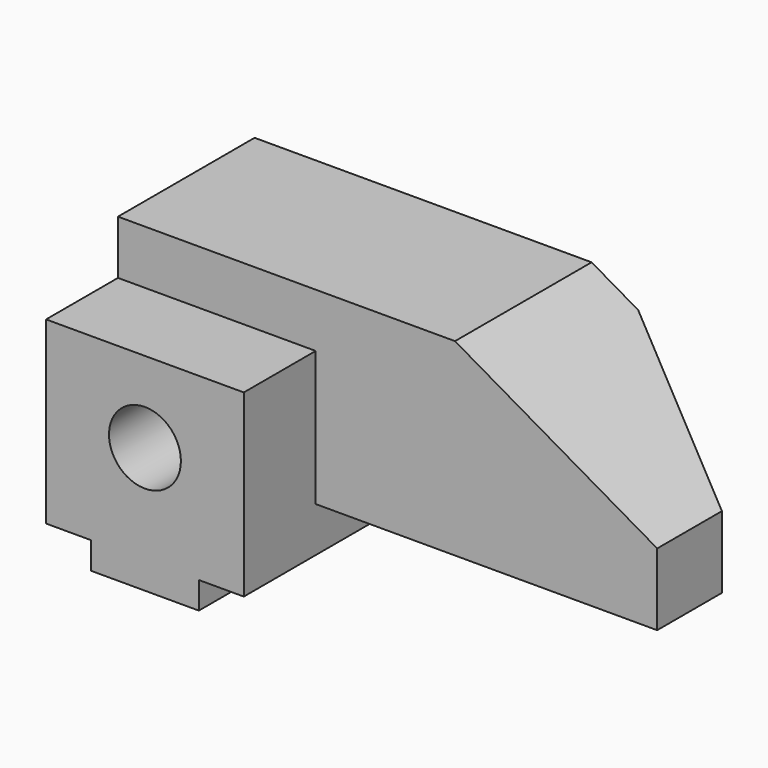
from build123d import *

# Parameters (mm, degrees)
F0_R     = 8
F3_DEPTH = 42
F4_DEPTH = 38
F5_DEPTH = 22
F7_DEPTH = 42.001


with BuildPart() as f3:
    # F0 (on Front) → F3 (new body)
    with BuildSketch(Plane.XZ):
        Polygon((10, 6), (10, 0), (34, 0), (34, 6), (44, 6), (44, 16), (44, 46), (0, 46), (0, 6), align=None)
        with Locations((22, 28)):
            Circle(F0_R, mode=Mode.SUBTRACT)
    extrude(amount=F3_DEPTH)

    # F2 (on offset) → F4 (join)
    with BuildSketch(Plane.XZ.offset(-16)):
        Polygon((75, 58), (0, 58), (0, 16), (120, 16), (120, 32.0192378865), align=None)
    extrude(amount=F4_DEPTH)

    # F5 (cut): a face of the model
    f5_faces = [f3.faces().sort_by_distance(p)[0] for p in [
        (22, -22, 28),
    ]]
    extrude(f5_faces, amount=-F5_DEPTH, mode=Mode.SUBTRACT)

    # F6 (on face) → F7 (cut, through all)
    with BuildSketch(Plane(origin=(0, 0, 16), x_dir=(1, 0, 0), z_dir=(0, 0, -1))):
        Polygon((120, 4), (85.3589838486, -16), (120, -16), align=None)
    extrude(amount=-F7_DEPTH, mode=Mode.SUBTRACT)


solid = f3.part
